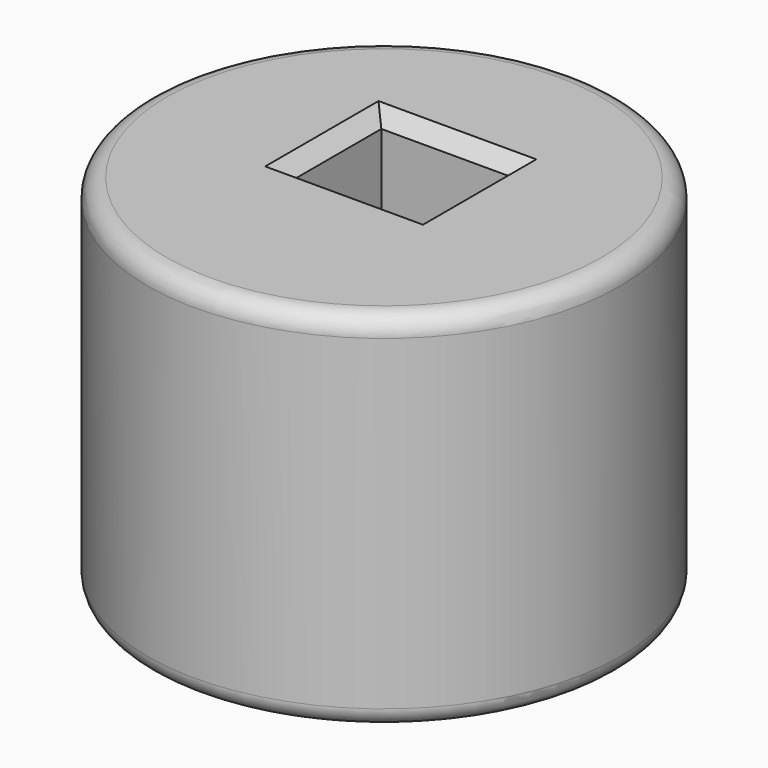
from build123d import *

# Parameters (mm, degrees)
F0_R     = 63.5
F1_DEPTH = 97.79
F2_W     = 34.789767
F2_H     = 30.441041
F3_DEPTH = 97.791
F4_R     = 5.08
F5_SIZE  = 3.81


with BuildPart() as f1:
    # F0 (on Top) → F1 (new body)
    with BuildSketch(Plane.XY):
        Circle(F0_R)
    extrude(amount=F1_DEPTH)

    # F2 (on face) → F3 (cut, through all)
    with BuildSketch(Plane.XY.offset(97.79)):
        with Locations((-1.358978, 7.338465)):
            Rectangle(F2_W, F2_H)
    extrude(amount=-F3_DEPTH, mode=Mode.SUBTRACT)

    # F4
    f4_edges = [f1.edges().sort_by_distance(p)[0] for p in [
        (-63.5, 0, 97.79),
        (-63.5, 0, 0),
    ]]
    fillet(f4_edges, radius=F4_R)

    # F5
    f5_edges = [f1.edges().sort_by_distance(p)[0] for p in [
        (-1.358978, -7.882056, 0),
        (16.035905, 7.338465, 0),
        (-1.358978, 22.558985, 0),
        (-18.753862, 7.338465, 0),
        (16.035905, 7.338465, 97.79),
        (-1.358978, 22.558985, 97.79),
        (-18.753862, 7.338465, 97.79),
        (-1.358978, -7.882056, 97.79),
    ]]
    chamfer(f5_edges, length=F5_SIZE)


solid = f1.part
